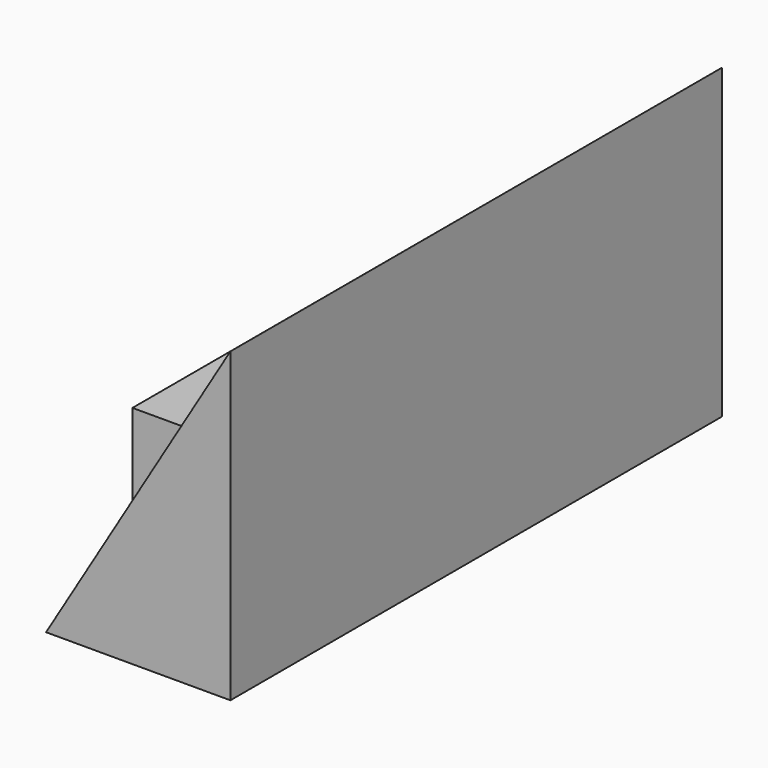
from build123d import *

# Parameters (mm, degrees)
F1_DEPTH = 127
F2_W     = 82.55
F2_H     = 31.766368
F3_DEPTH = 26.416


with BuildPart() as f1:
    # F0 (on Front) → F1 (new body)
    with BuildSketch(Plane.XZ):
        Polygon((11.617376, 23.422131), (-26.482624, -40.077869), (11.617376, -40.077869), align=None)
    extrude(amount=F1_DEPTH)

    # F2 (on Right) → F3 (join)
    with BuildSketch(Plane.YZ):
        with Locations((-63.489547, -24.14987)):
            Rectangle(F2_W, F2_H)
    extrude(amount=-F3_DEPTH)


solid = f1.part
